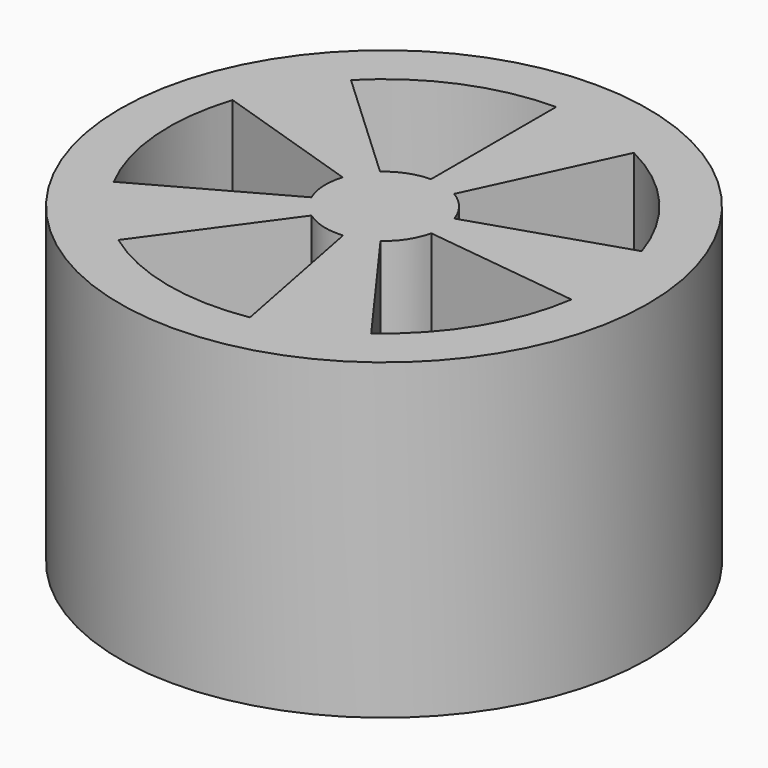
from build123d import *

# Parameters (mm, degrees)
F0_R     = 6.75
F1_DEPTH = 8
F3_DEPTH = 8


with BuildPart() as f1:
    # F0 (on Top) → F1 (new body)
    with BuildSketch(Plane.XY):
        Circle(F0_R)
    extrude(amount=F1_DEPTH)

    # F2 (on face) → F3 (cut)
    with BuildSketch(Plane.XY.offset(8)):
        with BuildLine():
            Line((0, 1.5), (0, 5.5))
            ThreePointArc((0, 5.5), (-2.128883, 5.071277), (-3.925876, 3.851947))
            Line((-3.925876, 3.851947), (-0.996991, 1.120718))
            ThreePointArc((-0.996991, 1.120718), (-0.533349, 1.401977), (0, 1.5))
        make_face()
        with BuildLine():
            Line((-1.426585, 0.463525), (-5.230811, 1.699593))
            ThreePointArc((-5.230811, 1.699593), (-5.480933, -0.457578), (-4.876582, -2.543413))
            Line((-4.876582, -2.543413), (-1.373953, -0.601874))
            ThreePointArc((-1.373953, -0.601874), (-1.498173, -0.074011), (-1.426585, 0.463525))
        make_face()
        with BuildLine():
            ThreePointArc((-3.232819, -4.449593), (-1.258519, -5.354076), (0.911982, -5.423863))
            Line((0.911982, -5.423863), (0.147841, -1.492697))
            ThreePointArc((0.147841, -1.492697), (-0.392573, -1.447718), (-0.881678, -1.213525))
            Line((-0.881678, -1.213525), (-3.232819, -4.449593))
        make_face()
        with BuildLine():
            ThreePointArc((3.232819, -4.449593), (4.703125, -2.851423), (5.440218, -0.808719))
            Line((5.440218, -0.808719), (1.465324, -0.320663))
            ThreePointArc((1.465324, -0.320663), (1.25555, -0.820728), (0.881678, -1.213525))
            Line((0.881678, -1.213525), (3.232819, -4.449593))
        make_face()
        with BuildLine():
            Line((1.426585, 0.463525), (5.230811, 1.699593))
            ThreePointArc((5.230811, 1.699593), (4.16521, 3.591799), (2.450257, 4.924047))
            Line((2.450257, 4.924047), (0.757779, 1.294516))
            ThreePointArc((0.757779, 1.294516), (1.168545, 0.94048), (1.426585, 0.463525))
        make_face()
    extrude(amount=-F3_DEPTH, mode=Mode.SUBTRACT)


solid = f1.part
